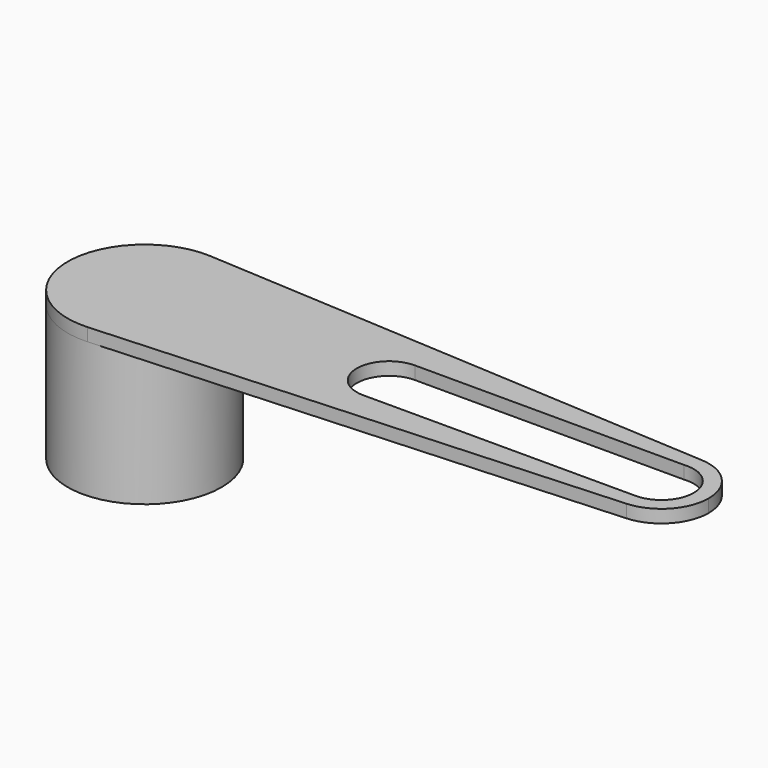
from build123d import *

# Parameters (mm, degrees)
F0_R     = 11.919915
F1_DEPTH = 21
F3_DEPTH = 2
F5_DEPTH = 25


with BuildPart() as f1:
    # F0 (on Top) → F1 (new body)
    with BuildSketch(Plane.XY):
        with Locations((-8.941904, 13.841942)):
            Circle(F0_R)
    extrude(amount=F1_DEPTH)

    # F2 (on face) → F3 (join)
    with BuildSketch(Plane.XY.offset(21)):
        with BuildLine():
            ThreePointArc((-8.255348, 1.941816), (-0.273915, 5.659623), (2.978011, 13.841942))
            ThreePointArc((2.978011, 13.841942), (-0.273915, 22.024261), (-8.255348, 25.742068))
            ThreePointArc((-8.255348, 25.742068), (-20.861818, 13.841942), (-8.255348, 1.941816))
        make_face()
        with BuildLine():
            ThreePointArc((-8.255348, 25.742068), (-0.273915, 22.024261), (2.978011, 13.841942))
            Line((2.978011, 13.841942), (63.745973, 13.841942))
            ThreePointArc((63.745973, 13.841942), (66.038754, 19.159212), (71.479256, 21.141927))
            Line((71.479256, 21.141927), (-8.255348, 25.742068))
        make_face()
        with BuildLine():
            Line((63.745973, 13.841942), (2.978011, 13.841942))
            ThreePointArc((2.978011, 13.841942), (-0.273915, 5.659623), (-8.255348, 1.941816))
            Line((-8.255348, 1.941816), (71.479256, 6.541957))
            ThreePointArc((71.479256, 6.541957), (66.038754, 8.524672), (63.745973, 13.841942))
        make_face()
        with BuildLine():
            ThreePointArc((71.479256, 21.141927), (66.038754, 19.159212), (63.745973, 13.841942))
            ThreePointArc((63.745973, 13.841942), (66.038754, 8.524672), (71.479256, 6.541957))
            ThreePointArc((71.479256, 6.541957), (76.375366, 8.8226), (78.37022, 13.841942))
            ThreePointArc((78.37022, 13.841942), (76.375366, 18.861284), (71.479256, 21.141927))
        make_face()
    extrude(amount=F3_DEPTH)

    # F4 (on face) → F5 (cut)
    with BuildSketch(Plane.XY.offset(23)):
        with BuildLine():
            Line((28.891168, 8.841942), (71.058096, 8.841942))
            ThreePointArc((71.058096, 8.841942), (76.052672, 14.074788), (70.59291, 18.820255))
            Line((70.59291, 18.820255), (28.893769, 18.841941))
            ThreePointArc((28.893769, 18.841941), (23.891169, 13.843242), (28.891168, 8.841942))
        make_face()
    extrude(amount=-F5_DEPTH, mode=Mode.SUBTRACT)


solid = f1.part
